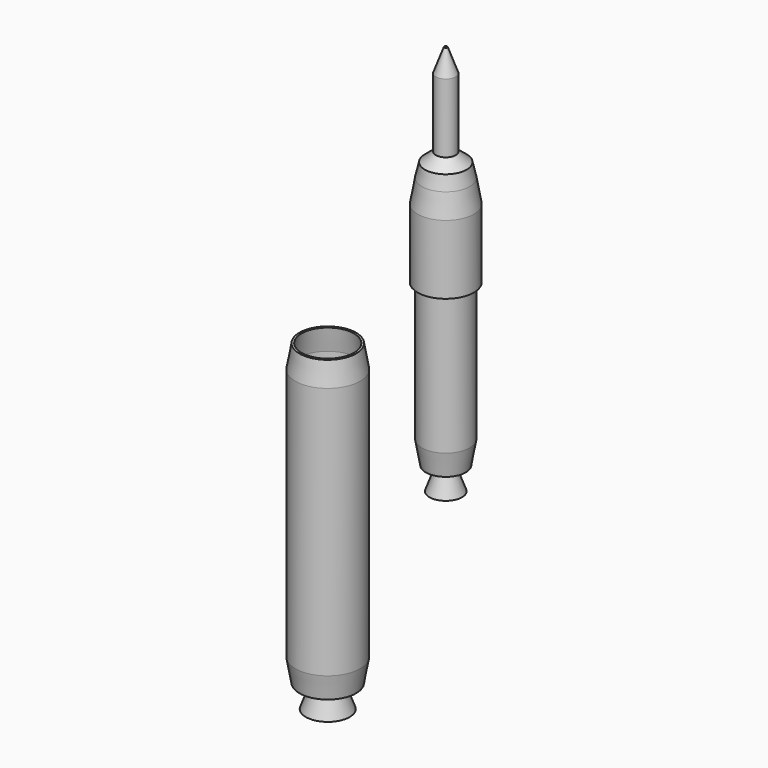
from build123d import *

# Parameters (mm, degrees)
F0_R          = 7.0415338491
F1_DEPTH      = 5
F1_DEPTH_BACK = 50
F1_FACE_R     = 7.0415338491
F2_DEPTH      = 5
F2_TAPER      = 10
F1_FACE1_R    = 7.0415338491
F3_DEPTH      = 5
F3_TAPER      = 10
F4_R          = 5.7013293064
F5_DEPTH      = 5
F5_TAPER      = -10
F6_R          = 2.93979731
F7_DEPTH      = 5
F7_TAPER      = -20
F8_R          = 4.1917366142
F9_DEPTH      = 5
F9_TAPER      = 20
F10_R         = 5.2124971129
F11_DEPTH     = 30
F11_FACE_R    = 5.2124971129
F12_DEPTH     = 5
F12_TAPER     = 10
F13_R         = 1.7213370452
F14_DEPTH     = 5
F14_TAPER     = -20
F15_R         = 3.1723936167
F16_DEPTH     = 5
F16_TAPER     = 20
F17_DEPTH     = 5
F18_R         = 6.1121250455
F19_DEPTH     = 15
F19_FACE_R    = 6.1121250455
F20_DEPTH     = 5
F20_TAPER     = 10
F20_FACE_R    = 5.230490142
F21_DEPTH     = 3
F21_TAPER     = 13
F21_FACE_R    = 4.5378855686
F22_DEPTH     = 2
F22_TAPER     = 50
F23_DEPTH     = 15
F23_FACE_R    = 2.1543783834
F24_DEPTH     = 5
F24_TAPER     = 20


with BuildPart() as f1:
    # F0 (on Top) → F1 (new body, two sides)
    with BuildSketch(Plane.XY) as f1_sk:
        Circle(F0_R)
    extrude(amount=F1_DEPTH)
    extrude(f1_sk.sketch, amount=-F1_DEPTH_BACK)

    # F1_face (on face) → F2 (join)
    with BuildSketch(Plane(origin=(0, 0, -50), x_dir=(1, 0, 0), z_dir=(0, 0, -1))):
        Circle(F1_FACE_R)
    extrude(amount=F2_DEPTH, taper=F2_TAPER)

    # F1_face1 (on face) → F3 (join)
    with BuildSketch(Plane.XY.offset(5)):
        Circle(F1_FACE1_R)
    extrude(amount=F3_DEPTH, taper=F3_TAPER)

    # F4 (on face) → F5 (cut)
    with BuildSketch(Plane.XY.offset(10)):
        Circle(F4_R)
    extrude(amount=-F5_DEPTH, taper=F5_TAPER, mode=Mode.SUBTRACT)

    # F6 (on face) → F7 (join)
    with BuildSketch(Plane(origin=(0, 0, -55), x_dir=(1, 0, 0), z_dir=(0, 0, -1))):
        Circle(F6_R)
    extrude(amount=F7_DEPTH, taper=F7_TAPER)

    # F8 (on face) → F9 (cut)
    with BuildSketch(Plane(origin=(0, 0, -60), x_dir=(1, 0, 0), z_dir=(0, 0, -1))):
        Circle(F8_R)
    extrude(amount=-F9_DEPTH, taper=F9_TAPER, mode=Mode.SUBTRACT)

    # F17 (cut): a face of the model
    f17_faces = [f1.faces().sort_by_distance(p)[0] for p in [
        (0, 0, 5),
    ]]
    extrude(f17_faces, amount=-F17_DEPTH, mode=Mode.SUBTRACT)


with BuildPart() as f11:
    # F10 (on Top) → F11 (new body)
    with BuildSketch(Plane.XY):
        with Locations((25.6514661014, 0)):
            Circle(F10_R)
    extrude(amount=F11_DEPTH)

    # F11_face (on face) → F12 (join)
    with BuildSketch(Plane(origin=(25.6514661014, 0, 0), x_dir=(1, 0, 0), z_dir=(0, 0, -1))):
        Circle(F11_FACE_R)
    extrude(amount=F12_DEPTH, taper=F12_TAPER)

    # F13 (on face) → F14 (join)
    with BuildSketch(Plane(origin=(0, 0, -5), x_dir=(1, 0, 0), z_dir=(0, 0, -1))):
        with Locations((25.6514661014, 0)):
            Circle(F13_R)
    extrude(amount=F14_DEPTH, taper=F14_TAPER)

    # F15 (on face) → F16 (cut)
    with BuildSketch(Plane(origin=(0, 0, -10), x_dir=(1, 0, 0), z_dir=(0, 0, -1))):
        with Locations((25.6514661014, 0)):
            Circle(F15_R)
    extrude(amount=-F16_DEPTH, taper=F16_TAPER, mode=Mode.SUBTRACT)

    # F18 (on face) → F19 (join)
    with BuildSketch(Plane.XY.offset(30)):
        with Locations((25.6514661014, 0)):
            Circle(F18_R)
    extrude(amount=F19_DEPTH)

    # F19_face (on face) → F20 (join)
    with BuildSketch(Plane(origin=(25.6514661014, 0, 45), x_dir=(1, 0, 0), z_dir=(0, 0, 1))):
        Circle(F19_FACE_R)
    extrude(amount=F20_DEPTH, taper=F20_TAPER)

    # F20_face (on face) → F21 (join)
    with BuildSketch(Plane(origin=(25.6514661014, 0, 50), x_dir=(1, 0, 0), z_dir=(0, 0, 1))):
        Circle(F20_FACE_R)
    extrude(amount=F21_DEPTH, taper=F21_TAPER)

    # F21_face (on face) → F22 (join)
    with BuildSketch(Plane(origin=(25.6514661014, 0, 53), x_dir=(1, 0, 0), z_dir=(0, 0, 1))):
        Circle(F21_FACE_R)
    extrude(amount=F22_DEPTH, taper=F22_TAPER)

    # F23 (add): a face of the model
    f23_faces = [f11.faces().sort_by_distance(p)[0] for p in [
        (25.6514661014, 0, 55),
    ]]
    extrude(f23_faces, amount=F23_DEPTH)

    # F23_face (on face) → F24 (join)
    with BuildSketch(Plane(origin=(25.6514661014, 0, 70), x_dir=(1, 0, 0), z_dir=(0, 0, 1))):
        Circle(F23_FACE_R)
    extrude(amount=F24_DEPTH, taper=F24_TAPER)


solid = Compound([f1.part, f11.part])
